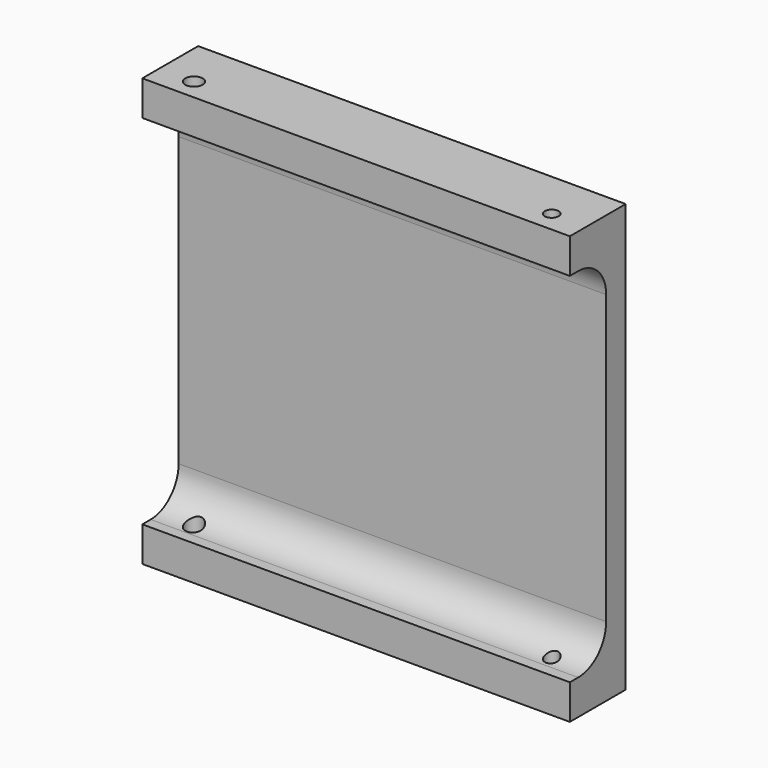
from build123d import *

# Parameters (mm, degrees)
F0_W     = 61.25
F0_H     = 61.25
F1_DEPTH = 10
F3_DEPTH = 80
F4_R     = 1
F4_R_2   = 1.25
F5_DEPTH = 80


with BuildPart() as f1:
    # F0 (on Front) → F1 (new body)
    with BuildSketch(Plane.XZ):
        with Locations((30.625, 30.625)):
            Rectangle(F0_W, F0_H)
    extrude(amount=F1_DEPTH)

    # F2 (on face) → F3 (cut)
    with BuildSketch(Plane.YZ.offset(61.25)):
        with BuildLine():
            Line((-10, 56.25), (-10, 5))
            Line((-10, 5), (-8.5, 5))
            ThreePointArc((-8.5, 5), (-4.964466, 6.464466), (-3.5, 10))
            Line((-3.5, 10), (-3.5, 51.25))
            ThreePointArc((-3.5, 51.25), (-4.964466, 54.785534), (-8.5, 56.25))
            Line((-8.5, 56.25), (-10, 56.25))
        make_face()
    extrude(amount=-F3_DEPTH, mode=Mode.SUBTRACT)

    # F4 (on face) → F5 (cut)
    with BuildSketch(Plane(origin=(0, 0, 0), x_dir=(1, 0, 0), z_dir=(0, 0, -1))):
        with Locations((56.25, 7)):
            Circle(F4_R)
        with Locations((5, 7)):
            Circle(F4_R_2)
    extrude(amount=-F5_DEPTH, mode=Mode.SUBTRACT)


solid = f1.part
